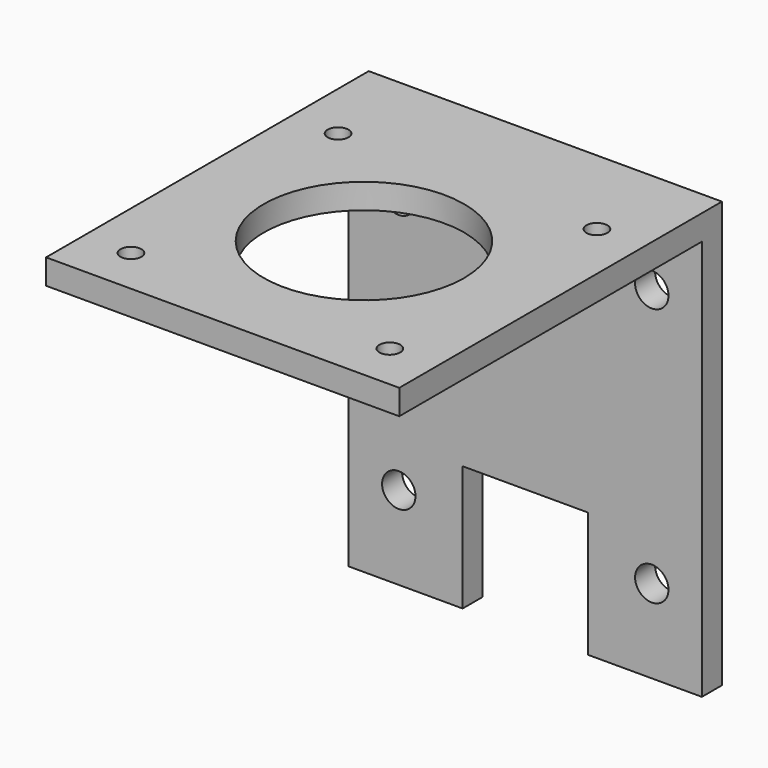
from build123d import *

# Parameters (mm, degrees)
SKETCH_R     = 1.25
SKETCH_R_2   = 12
PAD_DEPTH    = 3
SKETCH001_W  = 42.3
SKETCH001_H  = 3
PAD001_DEPTH = 48
SKETCH002_R  = 2
SKETCH002_W  = 15
SKETCH002_H  = 15
POCKET_DEPTH = 48.301


with BuildPart() as part:
    # Sketch → Pad (new body)
    with BuildSketch(Plane.XY):
        Polygon((0, 0), (42.3, 0), (42.3, 42.3), (42.3, 48.3), (0, 48.3), (0, 42.3), align=None)
        with Locations((5.65, 36.65)):
            Circle(SKETCH_R, mode=Mode.SUBTRACT)
        with Locations((36.65, 36.65)):
            Circle(SKETCH_R, mode=Mode.SUBTRACT)
        with Locations((5.65, 5.65)):
            Circle(SKETCH_R, mode=Mode.SUBTRACT)
        with Locations((36.65, 5.65)):
            Circle(SKETCH_R, mode=Mode.SUBTRACT)
        with Locations((21.15, 21.15)):
            Circle(SKETCH_R_2, mode=Mode.SUBTRACT)
    extrude(amount=PAD_DEPTH)

    # Sketch001 → Pad001 (new body)
    with BuildSketch(Plane(origin=(0, 0, 0), x_dir=(1, 0, 0), z_dir=(0, 0, -1))):
        with Locations((21.15, -46.8)):
            Rectangle(SKETCH001_W, SKETCH001_H)
    extrude(amount=PAD001_DEPTH)

    # Sketch002 → Pocket (cut, through all)
    with BuildSketch(Plane(origin=(0, 48.3, 0), x_dir=(-1, 0, 0), z_dir=(0, 1, 0))):
        with Locations((-36.3, -7)):
            Circle(SKETCH002_R)
        with Locations((-6, -7)):
            Circle(SKETCH002_R)
        with Locations((-36.3, -38)):
            Circle(SKETCH002_R)
        with Locations((-6, -38)):
            Circle(SKETCH002_R)
        with Locations((-21.15, -40.5)):
            Rectangle(SKETCH002_W, SKETCH002_H)
    extrude(amount=-POCKET_DEPTH, mode=Mode.SUBTRACT)


solid = part.part
